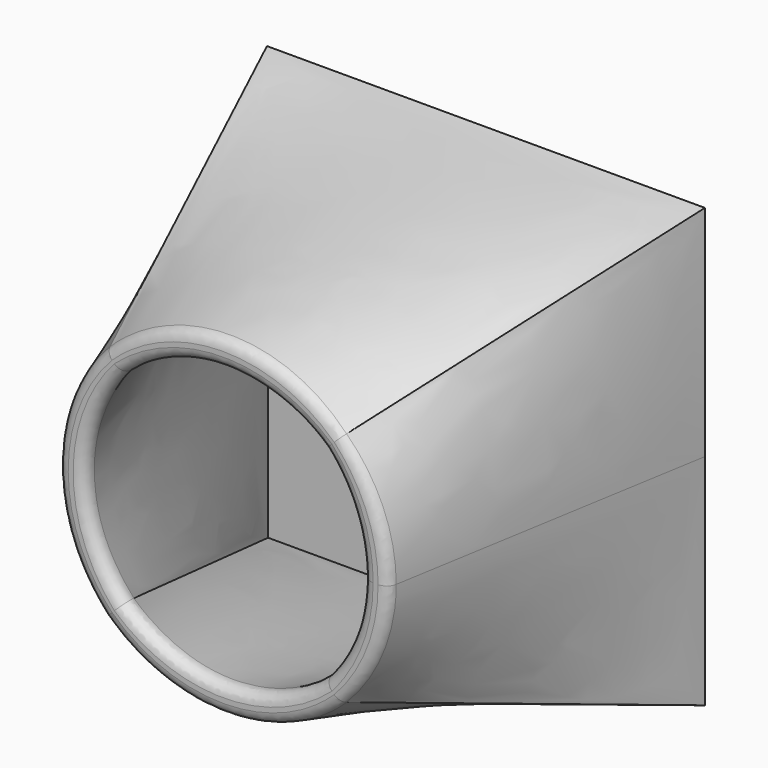
from build123d import *

# Parameters (mm, degrees)
SKETCH001_R = 15
SKETCH_W    = 40
SKETCH_H    = 40
SKETCH002_W = 35
SKETCH002_H = 35
SKETCH003_R = 12.5
FILLET_R    = 1
FILLET001_R = 1


with BuildPart() as part:
    # Sketch001 (on Sketch) → AdditiveLoft section 0
    with BuildSketch(Plane.XZ.offset(30)):
        Circle(SKETCH001_R)
    # Sketch (on XZ_Plane of Origin) → AdditiveLoft section 1
    with BuildSketch(Plane.XZ):
        Rectangle(SKETCH_W, SKETCH_H)
    loft()

    # Sketch002 (on Face3 of AdditiveLoft) → SubtractiveLoft section 0
    with BuildSketch(Plane(origin=(0, -3, 0), x_dir=(1, 0, 0), z_dir=(0, 1, 0))):
        Rectangle(SKETCH002_W, SKETCH002_H)
    # Sketch003 (on Sketch) → SubtractiveLoft section 1
    with BuildSketch(Plane(origin=(0, -30, 0), x_dir=(1, 0, 0), z_dir=(0, 1, 0))):
        Circle(SKETCH003_R)
    loft(mode=Mode.SUBTRACT)

    # Fillet
    fillet_edges = [part.edges().sort_by_distance(p)[0] for p in [
        (0, -30, 15),
        (13.858193, -30, 5.740251),
        (13.858193, -30, -5.740251),
        (0, -30, -15),
        (-15, -30, 0),
    ]]
    fillet(fillet_edges, radius=FILLET_R)

    # Fillet001
    fillet001_edges = [part.edges().sort_by_distance(p)[0] for p in [
        (11.548494, -30, 4.783543),
        (0, -30, -12.5),
        (-12.5, -30, 0),
        (0, -30, 12.5),
    ]]
    fillet(fillet001_edges, radius=FILLET001_R)


solid = part.part
